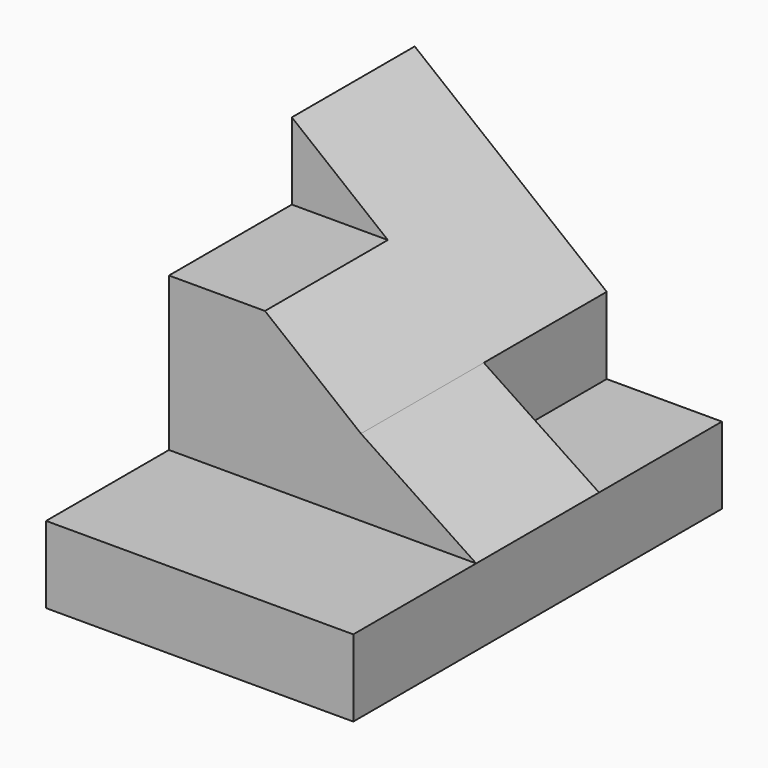
from build123d import *

# Parameters (mm, degrees)
F0_W     = 25.4
F0_H     = 6.35
F1_DEPTH = 38.1
F3_DEPTH = 25.4
F4_DEPTH = 12.7
F6_DEPTH = 25.4
F7_DEPTH = 12.7


with BuildPart() as f1:
    # F0 (on Front) → F1 (new body)
    with BuildSketch(Plane.XZ):
        with Locations((12.7, 3.175)):
            Rectangle(F0_W, F0_H)
    extrude(amount=F1_DEPTH)

    # F2 (on Front) → F3 (join)
    with BuildSketch(Plane.XZ):
        Polygon((0, 19.05), (0, 6.35), (15.875, 6.35), (15.875, 12.7), (7.9375, 19.05), align=None)
    extrude(amount=F3_DEPTH)

    # F2 (on Front) → F4 (join)
    with BuildSketch(Plane.XZ):
        Polygon((0, 25.4), (0, 19.05), (7.9375, 19.05), align=None)
    extrude(amount=F4_DEPTH)

    # F5 (on Front) → F6 (join)
    with BuildSketch(Plane.XZ):
        Polygon((25.4, 6.35), (15.875, 12.7), (15.875, 6.35), align=None)
    extrude(amount=F6_DEPTH)

    # F5 (on Front) → F7 (cut)
    with BuildSketch(Plane.XZ):
        Polygon((25.4, 6.35), (15.875, 12.7), (15.875, 6.35), align=None)
    extrude(amount=F7_DEPTH, mode=Mode.SUBTRACT)


solid = f1.part
